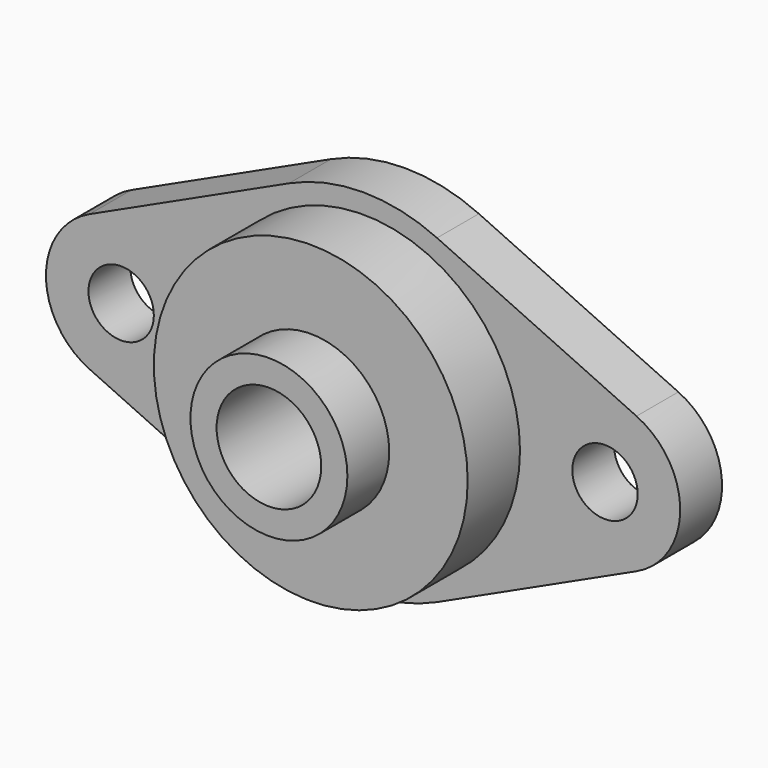
from build123d import *

# Parameters (mm, degrees)
SKETCH_R      = 4
SKETCH_R_2    = 2.5
PAD_DEPTH     = 4
SKETCH001_R   = 12
SKETCH001_R_2 = 4
PAD001_DEPTH  = 5
SKETCH002_R   = 6
SKETCH002_R_2 = 4
PAD002_DEPTH  = 4


with BuildPart() as part:
    # Sketch → Pad (new body)
    with BuildSketch(Plane.XZ):
        with BuildLine():
            ThreePointArc((5.655405, 12.258319), (0, 13.5), (-5.655405, 12.258319))
            Line((-20.908784, 5.221136), (-5.655405, 12.258319))
            ThreePointArc((-20.908784, 5.221136), (-24.25, 0), (-20.908784, -5.221136))
            Line((-20.908784, -5.221136), (-5.655405, -12.258319))
            ThreePointArc((-5.655405, -12.258319), (0, -13.5), (5.655405, -12.258319))
            Line((5.655405, -12.258319), (20.908784, -5.221136))
            ThreePointArc((20.908784, -5.221136), (24.25, 0), (20.908784, 5.221136))
            Line((5.655405, 12.258319), (20.908784, 5.221136))
        make_face()
        Circle(SKETCH_R, mode=Mode.SUBTRACT)
        with Locations((18.5, 0)):
            Circle(SKETCH_R_2, mode=Mode.SUBTRACT)
        with Locations((-18.5, 0)):
            Circle(SKETCH_R_2, mode=Mode.SUBTRACT)
    extrude(amount=PAD_DEPTH)

    # Sketch001 (on Face13 of Pad) → Pad001 (join)
    with BuildSketch(Plane.XZ.offset(4)):
        Circle(SKETCH001_R)
        Circle(SKETCH001_R_2, mode=Mode.SUBTRACT)
    extrude(amount=PAD001_DEPTH)

    # Sketch002 (on Face16 of Pad001) → Pad002 (join)
    with BuildSketch(Plane.XZ.offset(9)):
        Circle(SKETCH002_R)
        Circle(SKETCH002_R_2, mode=Mode.SUBTRACT)
    extrude(amount=PAD002_DEPTH)


solid = part.part
